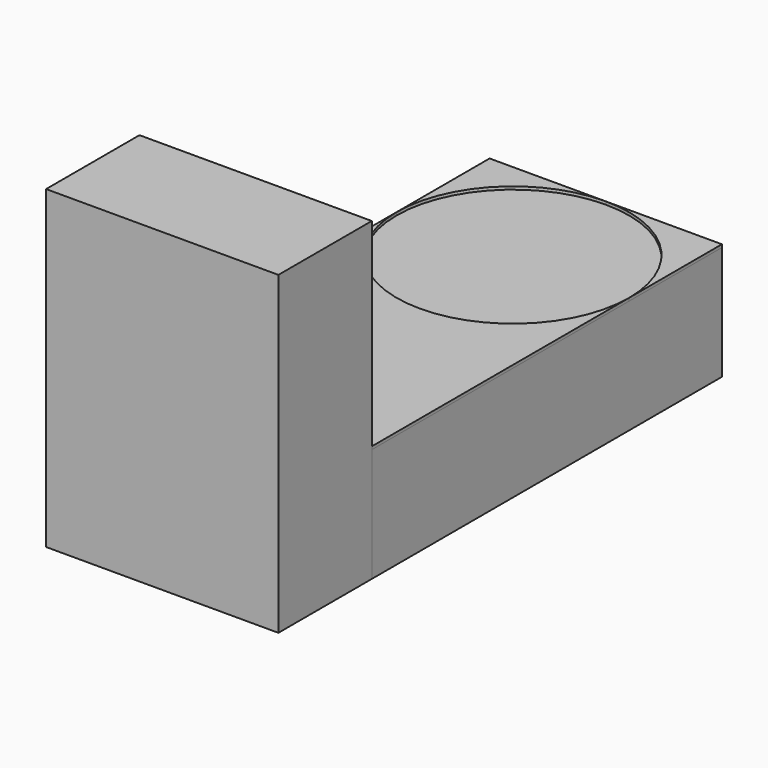
from build123d import *

# Parameters (mm, degrees)
F1_DEPTH = 400
F2_DEPTH = 390
F3_W     = 796.20788
F3_H     = 400
F4_DEPTH = 1080


with BuildPart() as f1:
    # F0 (on Top) → F1 (new body)
    with BuildSketch(Plane.XY):
        with BuildLine():
            Line((398.10394, -1101.89606), (398.10394, 0))
            ThreePointArc((398.10394, 0), (7.974e-07, -398.10394), (-398.10394, -1.5948e-06))
            Line((-398.10394, -1.5948e-06), (-398.10394, -1101.89606))
            Line((-398.10394, -1101.89606), (398.10394, -1101.89606))
        make_face()
    extrude(amount=F1_DEPTH)


with BuildPart() as f1b:
    # F0 (on Top) → F1, piece 2 (new body)
    with BuildSketch(Plane.XY):
        with BuildLine():
            ThreePointArc((-4.806e-07, 398.10394), (281.5019954212, 281.501995761), (398.10394, 0))
            Line((398.10394, 0), (398.10394, 398.10394))
            Line((398.10394, 398.10394), (-4.806e-07, 398.10394))
        make_face()
    extrude(amount=F1_DEPTH)


with BuildPart() as f1c:
    # F0 (on Top) → F1, piece 3 (new body)
    with BuildSketch(Plane.XY):
        with BuildLine():
            ThreePointArc((-398.10394, -1.5948e-06), (-281.5019963248, 281.5019948573), (-4.806e-07, 398.10394))
            Line((-4.806e-07, 398.10394), (-398.10394, 398.10394))
            Line((-398.10394, 398.10394), (-398.10394, -1.5948e-06))
        make_face()
    extrude(amount=F1_DEPTH)


with BuildPart() as f2:
    # F0 (on Top) → F2 (new body)
    with BuildSketch(Plane.XY):
        with BuildLine():
            ThreePointArc((-398.10394, -1.5948e-06), (7.974e-07, -398.10394), (398.10394, 0))
            ThreePointArc((398.10394, 0), (281.5019954212, 281.501995761), (-4.806e-07, 398.10394))
            ThreePointArc((-4.806e-07, 398.10394), (-281.5019963248, 281.5019948573), (-398.10394, -1.5948e-06))
        make_face()
        with BuildLine():
            Line((398.10394, -1101.89606), (398.10394, 0))
            ThreePointArc((398.10394, 0), (7.974e-07, -398.10394), (-398.10394, -1.5948e-06))
            Line((-398.10394, -1.5948e-06), (-398.10394, -1101.89606))
            Line((-398.10394, -1101.89606), (398.10394, -1101.89606))
        make_face()
        with BuildLine():
            ThreePointArc((-4.806e-07, 398.10394), (281.5019954212, 281.501995761), (398.10394, 0))
            Line((398.10394, 0), (398.10394, 398.10394))
            Line((398.10394, 398.10394), (-4.806e-07, 398.10394))
        make_face()
        with BuildLine():
            ThreePointArc((-398.10394, -1.5948e-06), (-281.5019963248, 281.5019948573), (-4.806e-07, 398.10394))
            Line((-4.806e-07, 398.10394), (-398.10394, 398.10394))
            Line((-398.10394, 398.10394), (-398.10394, -1.5948e-06))
        make_face()
    extrude(amount=F2_DEPTH)


with BuildPart() as f4:
    # F3 (on Top) → F4 (new body)
    with BuildSketch(Plane.XY):
        with Locations((0, -1301.89606)):
            Rectangle(F3_W, F3_H)
    extrude(amount=F4_DEPTH)


solid = Compound([f1.part, f1b.part, f1c.part, f2.part, f4.part])
